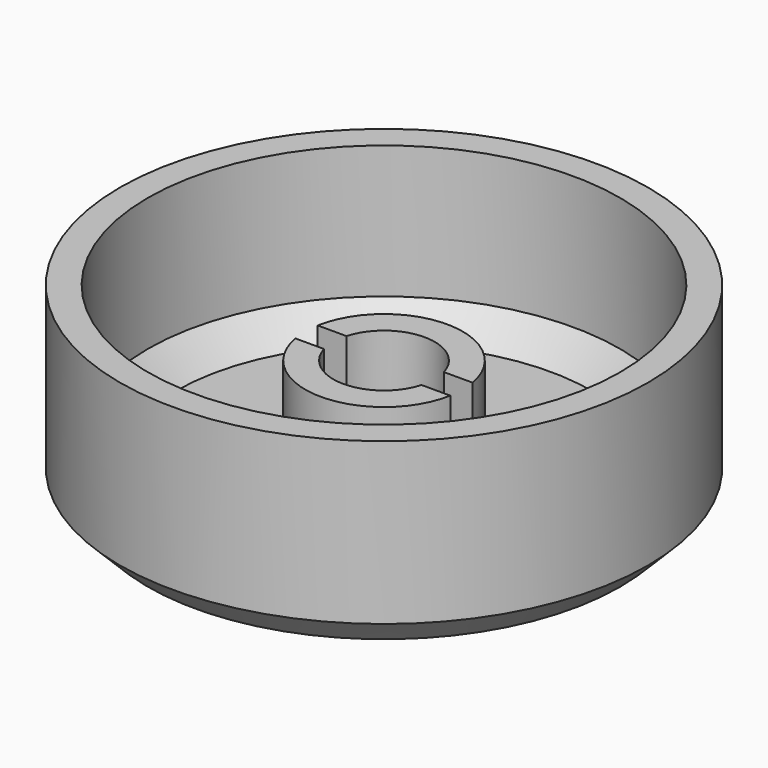
from build123d import *

# Parameters (mm, degrees)
BOX009_W          = 15
BOX009_H          = 1.6
BOX009_DEPTH      = 10.5
CYLINDER019_R     = 2.9
CYLINDER019_DEPTH = 10.5
CYLINDER018_R     = 4.5
CYLINDER018_DEPTH = 7
CYLINDER017_R     = 13.5
CYLINDER017_DEPTH = 10.8
CYLINDER016_R     = 15.1
CYLINDER016_DEPTH = 10.8
CHAMFER006_SIZE   = 1.6
CHAMFER007_SIZE   = 1.6
CHAMFER008_SIZE   = 1.6


with BuildPart() as obj1:
    # Box009 → Box009 (new body)
    with BuildSketch(Plane(origin=(123, 18.3, 1.6), x_dir=(1, 0, 0), z_dir=(0, 0, 1))):
        with Locations((7.5, 0.8)):
            Rectangle(BOX009_W, BOX009_H)
    extrude(amount=BOX009_DEPTH)


with BuildPart() as zylinder019:
    # Cylinder019 → Cylinder019 (new body)
    with BuildSketch(Plane(origin=(130, 19.1, 1.6), x_dir=(1, 0, 0), z_dir=(0, 0, 1))):
        Circle(CYLINDER019_R)
    extrude(amount=CYLINDER019_DEPTH)


with BuildPart() as cut009:
    # Cylinder018 → Cylinder018 (new body)
    with BuildSketch(Plane(origin=(130, 19.1, 0), x_dir=(1, 0, 0), z_dir=(0, 0, 1))):
        Circle(CYLINDER018_R)
    extrude(amount=CYLINDER018_DEPTH)

    # Cut009: cut Zylinder019
    add(zylinder019.part, mode=Mode.SUBTRACT)


with BuildPart() as zylinder017:
    # Cylinder017 → Cylinder017 (new body)
    with BuildSketch(Plane(origin=(130, 19.1, 1.6), x_dir=(1, 0, 0), z_dir=(0, 0, 1))):
        Circle(CYLINDER017_R)
    extrude(amount=CYLINDER017_DEPTH)


with BuildPart() as knob:
    # Cylinder016 → Cylinder016 (new body)
    with BuildSketch(Plane(origin=(130, 19.1, 0), x_dir=(1, 0, 0), z_dir=(0, 0, 1))):
        Circle(CYLINDER016_R)
    extrude(amount=CYLINDER016_DEPTH)

    # Cut008: cut Zylinder017
    add(zylinder017.part, mode=Mode.SUBTRACT)

    # Chamfer006
    chamfer006_edges = [knob.edges().sort_by_distance(p)[0] for p in [
        (116.5, 19.1, 1.6),
    ]]
    chamfer(chamfer006_edges, length=CHAMFER006_SIZE)

    # Chamfer007
    chamfer007_edges = [knob.edges().sort_by_distance(p)[0] for p in [
        (114.9, 19.1, 0),
    ]]
    chamfer(chamfer007_edges, length=CHAMFER007_SIZE)

    # Fusion011: union Cut009
    add(cut009.part)

    # Chamfer008
    chamfer008_edges = [knob.edges().sort_by_distance(p)[0] for p in [
        (125.5, 19.1, 1.6),
    ]]
    chamfer(chamfer008_edges, length=CHAMFER008_SIZE)

    # Cut010: cut obj1
    add(obj1.part, mode=Mode.SUBTRACT)


solid = knob.part
